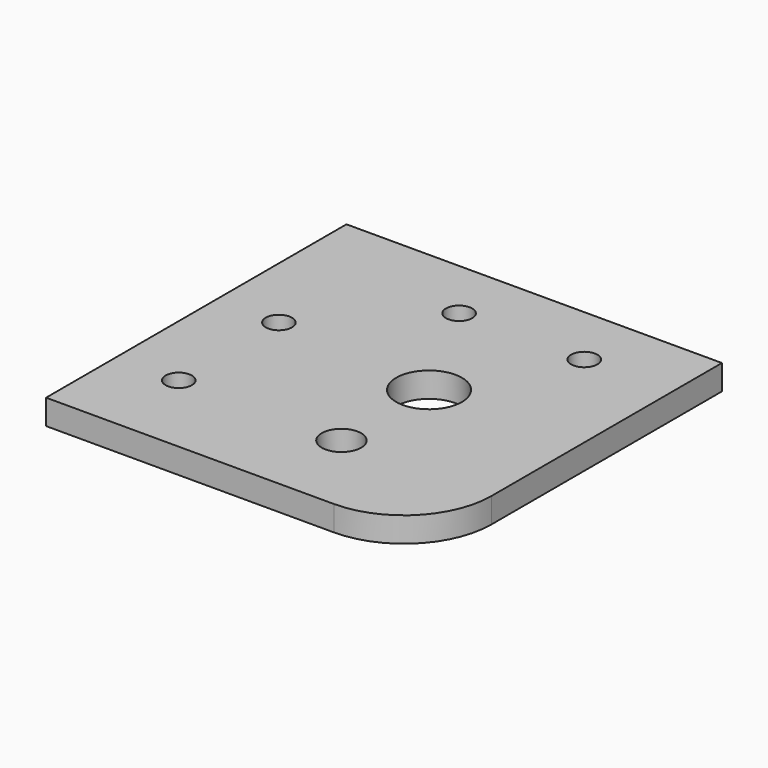
from build123d import *

# Parameters (mm, degrees)
F0_R     = 2.1
F0_R_2   = 7.5
F0_R_3   = 5.25
F1_DEPTH = 4
F0_R_4   = 3.15
F2_DEPTH = 3.5


with BuildPart() as f1:
    # F0 (on Top) → F1 (new body)
    with BuildSketch(Plane.XY):
        with BuildLine():
            Line((30, -16), (30, 30))
            Line((30, 30), (-30, 30))
            Line((-30, 30), (-30, -30))
            Line((-30, -30), (16, -30))
            ThreePointArc((16, -30), (25.899495, -25.899495), (30, -16))
        make_face()
        with Locations((-20, -16)):
            Circle(F0_R, mode=Mode.SUBTRACT)
        with Locations((6, -16)):
            Circle(F0_R_2, mode=Mode.SUBTRACT)
        with Locations((-20, 4)):
            Circle(F0_R, mode=Mode.SUBTRACT)
        with Locations((-4, 20)):
            Circle(F0_R, mode=Mode.SUBTRACT)
        with Locations((6, 1.5)):
            Circle(F0_R_3, mode=Mode.SUBTRACT)
        with Locations((16, 20)):
            Circle(F0_R, mode=Mode.SUBTRACT)
    extrude(amount=-F1_DEPTH)

    # F0 (on Top) → F2 (join)
    with BuildSketch(Plane.XY):
        with Locations((6, -16)):
            Circle(F0_R_2)
        with Locations((6, -16)):
            Circle(F0_R_4, mode=Mode.SUBTRACT)
    extrude(amount=-F2_DEPTH)


solid = f1.part
